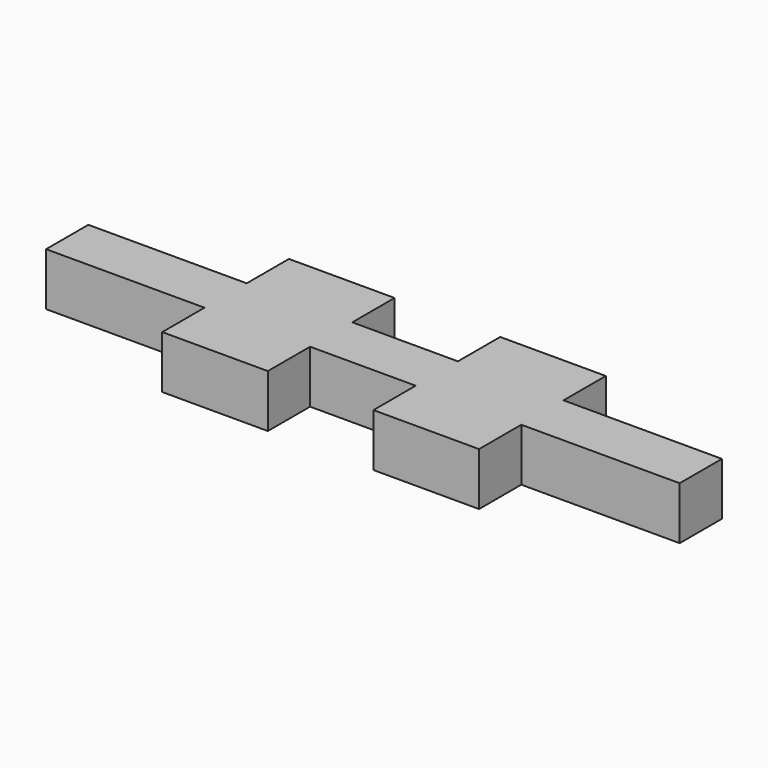
from build123d import *

# Parameters (mm, degrees)
F1_DEPTH = 6.35


with BuildPart() as f1:
    # F0 (on Top) → F1 (new body)
    with BuildSketch(Plane.XY):
        Polygon((31.75, 0), (19.05, 0), (19.05, -6.35), (0, -6.35), (0, -12.7), (19.05, -12.7), (19.05, -19.05), (31.75, -19.05), (31.75, -12.7), (44.45, -12.7), (44.45, -19.05), (57.15, -19.05), (57.15, -12.7), (76.2, -12.7), (76.2, -6.35), (57.15, -6.35), (57.15, 0), (44.45, 0), (44.45, -6.35), (31.75, -6.35), align=None)
    extrude(amount=F1_DEPTH)


solid = f1.part
